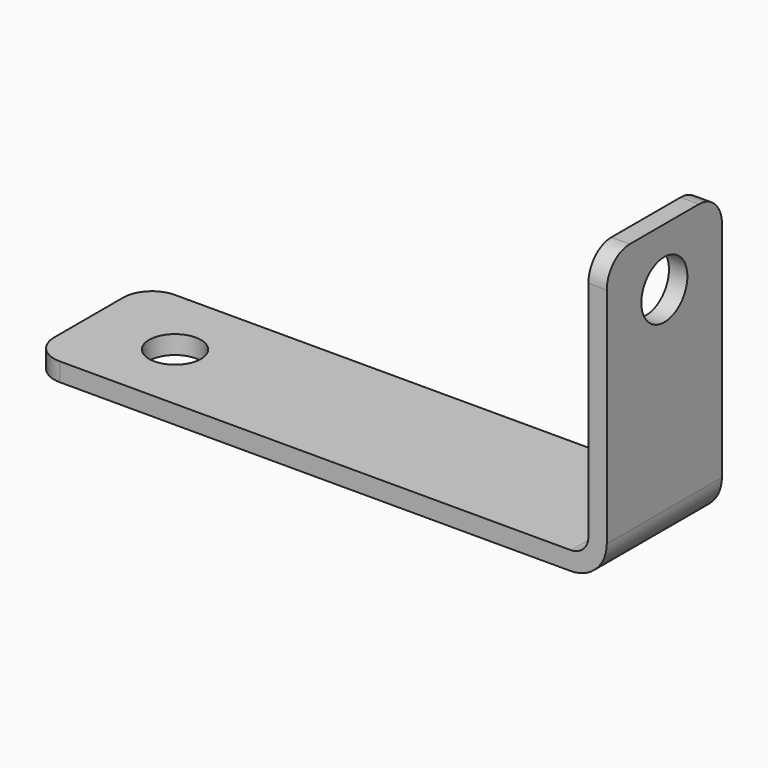
from build123d import *

# Parameters (mm, degrees)
F1_DEPTH = 25
F2_R     = 5
F3_DEPTH = 12.5
F4_R     = 4.5
F5_DEPTH = 3.201
F6_R     = 5


with BuildPart() as f1:
    # F0 (on Front) → F1 (new body)
    with BuildSketch(Plane.XZ):
        with BuildLine():
            Line((0, 3.2), (0, 0))
            Line((0, 0), (93.8, 0))
            ThreePointArc((93.8, 0), (98.184062, 1.815938), (100, 6.2))
            Line((100, 6.2), (100, 50))
            Line((100, 50), (96.8, 50))
            Line((96.8, 50), (96.8, 6.2))
            ThreePointArc((96.8, 6.2), (95.92132, 4.07868), (93.8, 3.2))
            Line((93.8, 3.2), (0, 3.2))
        make_face()
    extrude(amount=F1_DEPTH)

    # F2 (on face) → F3 (cut, symmetric)
    with BuildSketch(Plane(origin=(96.8, 0, 0), x_dir=(0, -1, 0), z_dir=(-1, 0, 0))):
        with Locations((12.5, 40)):
            Circle(F2_R)
    extrude(amount=F3_DEPTH, both=True, mode=Mode.SUBTRACT)

    # F4 (on face) → F5 (cut, through all)
    with BuildSketch(Plane.XY.offset(3.2)):
        with Locations((15, -12.5)):
            Circle(F4_R)
    extrude(amount=-F5_DEPTH, mode=Mode.SUBTRACT)

    # F6
    f6_edges = [f1.edges().sort_by_distance(p)[0] for p in [
        (0, -25, 1.6),
        (0, 0, 1.6),
        (98.4, 0, 50),
        (98.4, -25, 50),
    ]]
    fillet(f6_edges, radius=F6_R)


solid = f1.part
